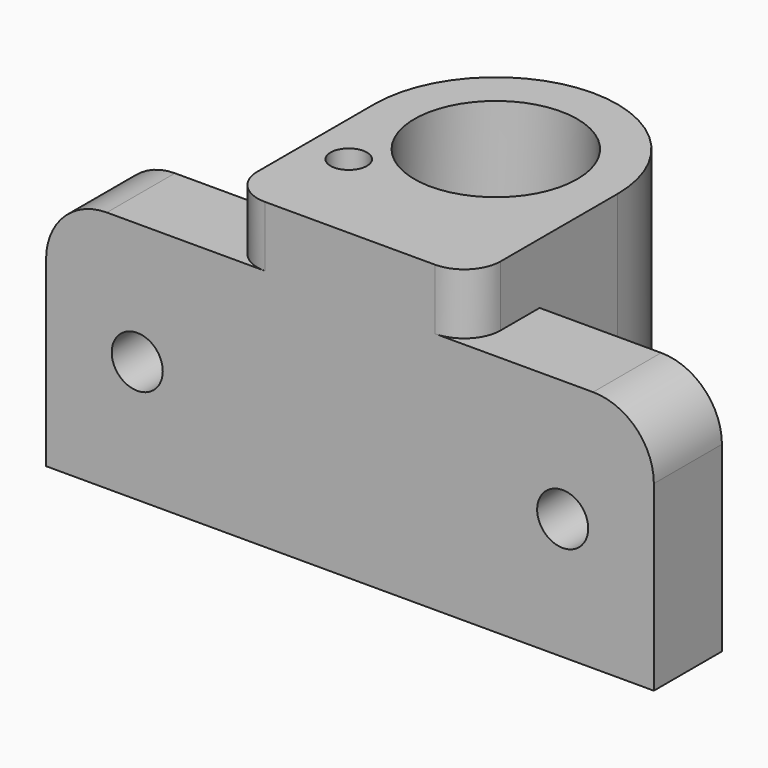
from build123d import *

# Parameters (mm, degrees)
CYLINDER002_R     = 1.5
CYLINDER002_DEPTH = 10
CYLINDER001_R     = 1.5
CYLINDER001_DEPTH = 10
PAD002_DEPTH      = 5
PAD001_DEPTH      = 20
SKETCH008_R       = 2.1
POCKET002_DEPTH   = 7
SKETCH009_R       = 3.6
POCKET003_DEPTH   = 2
CYLINDER_R        = 8
CYLINDER_DEPTH    = 5
SKETCH_R          = 10
SKETCH_R_2        = 6.7
PAD_DEPTH         = 25
FILLET_R          = 5
FILLET001_R       = 3
CHAMFER_SIZE      = 1
CHAMFER001_SIZE   = 1


with BuildPart() as zylinder002:
    # Cylinder002 → Cylinder002 (new body)
    with BuildSketch(Plane(origin=(6.5, -7, 0), x_dir=(1, 0, 0), z_dir=(0, 0, 1))):
        Circle(CYLINDER002_R)
    extrude(amount=CYLINDER002_DEPTH)


with BuildPart() as zylinder001:
    # Cylinder001 → Cylinder001 (new body)
    with BuildSketch(Plane(origin=(-6.5, -7, 15), x_dir=(1, 0, 0), z_dir=(0, 0, 1))):
        Circle(CYLINDER001_R)
    extrude(amount=CYLINDER001_DEPTH)


with BuildPart() as pad002:
    # Sketch011 → Pad002 (new body)
    with BuildSketch(Plane.XY.offset(20)):
        with BuildLine():
            Line((-10, 0), (-10, -15))
            Line((10, -15), (-10, -15))
            Line((10, 0), (10, -15))
            ThreePointArc((-10, 0), (0, -10), (10, 0))
        make_face()
    extrude(amount=PAD002_DEPTH)


with BuildPart() as pocket003:
    # Sketch003 → Pad001 (new body)
    with BuildSketch(Plane.XY):
        with BuildLine():
            ThreePointArc((-10, 0), (0, -10), (10, 0))
            Line((10, 0), (10, -8))
            Line((10, -8), (25, -8))
            Line((25, -8), (25, -15))
            Line((-25, -15), (25, -15))
            Line((-25, -8), (-25, -15))
            Line((-10, -8), (-25, -8))
            Line((-10, 0), (-10, -8))
        make_face()
    extrude(amount=PAD001_DEPTH)

    # Sketch008 → Pocket002 (cut)
    with BuildSketch(Plane.XZ.offset(15)):
        with Locations((-17.5, 10)):
            Circle(SKETCH008_R)
        with Locations((17.5, 10)):
            Circle(SKETCH008_R)
    extrude(amount=-POCKET002_DEPTH, mode=Mode.SUBTRACT)

    # Sketch009 → Pocket003 (cut)
    with BuildSketch(Plane(origin=(0, -8, 0), x_dir=(-1, 0, 0), z_dir=(0, 1, 0))):
        with Locations((-17.5, 10)):
            Circle(SKETCH009_R)
        with Locations((17.5, 10)):
            Circle(SKETCH009_R)
    extrude(amount=-POCKET003_DEPTH, mode=Mode.SUBTRACT)


with BuildPart() as zylinder:
    # Cylinder → Cylinder (new body)
    with BuildSketch(Plane.XY.offset(10)):
        Circle(CYLINDER_R)
    extrude(amount=CYLINDER_DEPTH)


with BuildPart() as chamfer001:
    # Sketch → Pad (new body)
    with BuildSketch(Plane.XY):
        Circle(SKETCH_R)
        Circle(SKETCH_R_2, mode=Mode.SUBTRACT)
    extrude(amount=PAD_DEPTH)

    # Cut: cut Zylinder
    add(zylinder.part, mode=Mode.SUBTRACT)

    # Fusion: union Pad002, Pocket003
    add(pad002.part)
    add(pocket003.part)

    # Cut001: cut Zylinder001
    add(zylinder001.part, mode=Mode.SUBTRACT)

    # Cut002: cut Zylinder002
    add(zylinder002.part, mode=Mode.SUBTRACT)

    # Fillet
    fillet_edges = [chamfer001.edges().sort_by_distance(p)[0] for p in [
        (25, -11.5, 20),
        (-25, -11.5, 20),
    ]]
    fillet(fillet_edges, radius=FILLET_R)

    # Fillet001
    fillet001_edges = [chamfer001.edges().sort_by_distance(p)[0] for p in [
        (10, -15, 22.5),
        (-10, -15, 22.5),
    ]]
    fillet(fillet001_edges, radius=FILLET001_R)

    # Chamfer
    chamfer_edges = [chamfer001.edges().sort_by_distance(p)[0] for p in [
        (-6.7, 0, 10),
    ]]
    chamfer(chamfer_edges, length=CHAMFER_SIZE)

    # Chamfer001
    chamfer001_edges = [chamfer001.edges().sort_by_distance(p)[0] for p in [
        (-6.7, 0, 15),
    ]]
    chamfer(chamfer001_edges, length=CHAMFER001_SIZE)


solid = chamfer001.part
